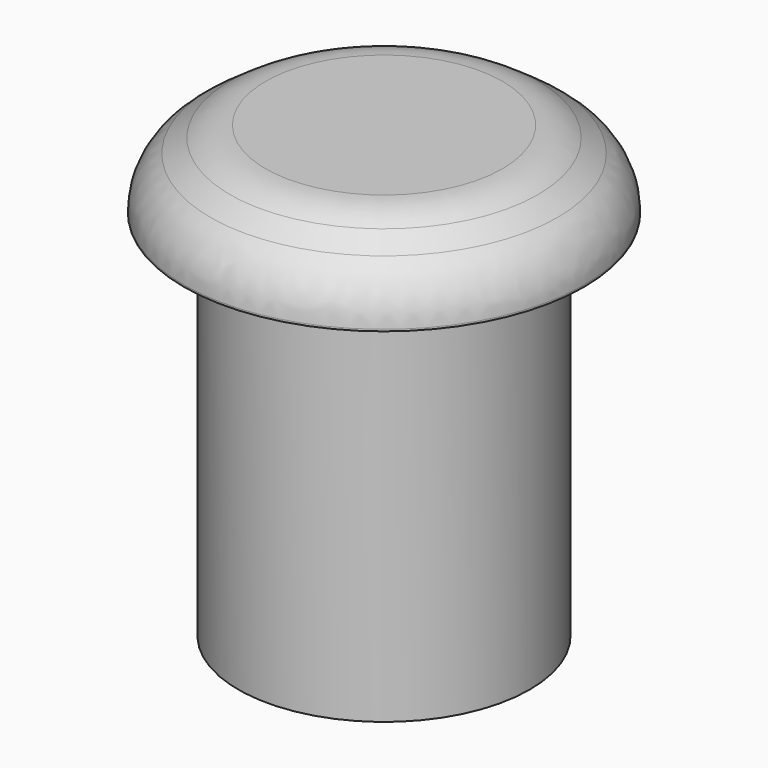
from build123d import *

# Parameters (mm, degrees)
F0_R     = 11.938
F1_DEPTH = 30.48
F2_R     = 16.383
F2_R_2   = 11.938
F3_DEPTH = 6.35
F4_SIZE2 = 3.5570542941
F4_SIZE  = 5.08
F5_R     = 5.08


with BuildPart() as f1:
    # F0 (on Top) → F1 (new body)
    with BuildSketch(Plane.XY):
        Circle(F0_R)
    extrude(amount=F1_DEPTH)

    # F2 (on face) → F3 (join)
    with BuildSketch(Plane.XY.offset(30.48)):
        Circle(F2_R)
        Circle(F2_R_2, mode=Mode.SUBTRACT)
        Circle(F2_R_2)
    extrude(amount=F3_DEPTH)

    # F4
    f4_edges = [f1.edges().sort_by_distance(p)[0] for p in [
        (-16.383, 0, 36.83),
    ]]
    f4_side = f1.faces().sort_by_distance((0, 0, 36.83))[0]
    chamfer(f4_edges, length=F4_SIZE, length2=F4_SIZE2, reference=f4_side)

    # F5
    f5_edges = [f1.edges().sort_by_distance(p)[0] for p in [
        (-11.303, 0, 36.83),
        (-16.383, 0, 33.272946),
    ]]
    fillet(f5_edges, radius=F5_R)


solid = f1.part
